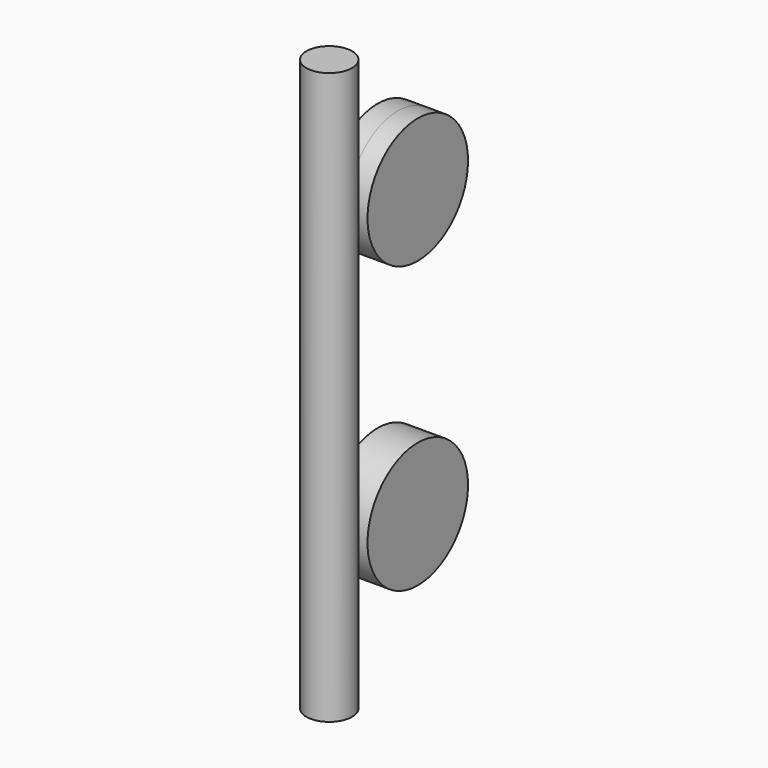
from build123d import *

# Parameters (mm, degrees)
F0_R     = 4
F1_DEPTH = 50
F3_R     = 11
F4_DEPTH = 3.5


with BuildPart() as f1:
    # F0 (on Top) → F1 (new body, symmetric)
    with BuildSketch(Plane.XY):
        Circle(F0_R)
    extrude(amount=F1_DEPTH, both=True)


with BuildPart() as f4:
    # F3 (on Right) → F4 (new body, symmetric)
    with BuildSketch(Plane.YZ):
        with Locations((15, 25)):
            Circle(F3_R)
        with Locations((15, -25)):
            Circle(F3_R)
    extrude(amount=F4_DEPTH, both=True)


solid = Compound([f1.part, f4.part])
